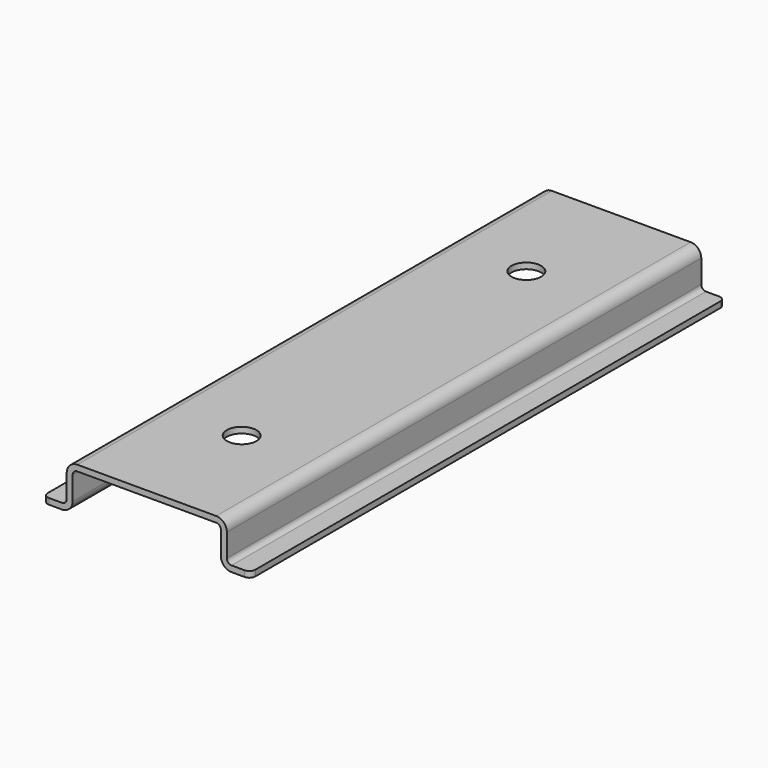
from build123d import *

# Parameters (mm, degrees)
F1_DEPTH = 50
F2_R     = 2.5
F3_DEPTH = 25
F4_R     = 1


with BuildPart() as f1:
    # F0 (on Front) → F1 (new body, symmetric)
    with BuildSketch(Plane.XZ):
        with BuildLine():
            Line((11.7, 7.5), (0, 7.5))
            Line((0, 7.5), (-11.7, 7.5))
            ThreePointArc((-11.7, 7.5), (-12.972792, 6.972792), (-13.5, 5.7))
            Line((-13.5, 5.7), (-13.5, 1.8))
            ThreePointArc((-13.5, 1.8), (-13.734315, 1.234315), (-14.3, 1))
            Line((-14.3, 1), (-17.5, 1))
            Line((-17.5, 1), (-17.5, 0))
            Line((-17.5, 0), (-14.3, 0))
            ThreePointArc((-14.3, 0), (-13.027208, 0.527208), (-12.5, 1.8))
            Line((-12.5, 1.8), (-12.5, 5.7))
            ThreePointArc((-12.5, 5.7), (-12.265685, 6.265685), (-11.7, 6.5))
            Line((-11.7, 6.5), (0, 6.5))
            Line((0, 6.5), (11.7, 6.5))
            ThreePointArc((11.7, 6.5), (12.265685, 6.265685), (12.5, 5.7))
            Line((12.5, 5.7), (12.5, 1.8))
            ThreePointArc((12.5, 1.8), (13.027208, 0.527208), (14.3, 0))
            Line((14.3, 0), (17.5, 0))
            Line((17.5, 0), (17.5, 1))
            Line((17.5, 1), (14.3, 1))
            ThreePointArc((14.3, 1), (13.734315, 1.234315), (13.5, 1.8))
            Line((13.5, 1.8), (13.5, 5.7))
            ThreePointArc((13.5, 5.7), (12.972792, 6.972792), (11.7, 7.5))
        make_face()
    extrude(amount=F1_DEPTH, both=True)

    # F2 (on face) → F3 (cut)
    with BuildSketch(Plane.XY.offset(7.5)):
        with Locations((0, 30)):
            Circle(F2_R)
        with Locations((0, -30)):
            Circle(F2_R)
    extrude(amount=-F3_DEPTH, mode=Mode.SUBTRACT)

    # F4
    f4_edges = [f1.edges().sort_by_distance(p)[0] for p in [
        (17.5, 50, 0.5),
        (-17.5, 50, 0.5),
        (17.5, -50, 0.5),
        (-17.5, -50, 0.5),
    ]]
    fillet(f4_edges, radius=F4_R)


solid = f1.part
